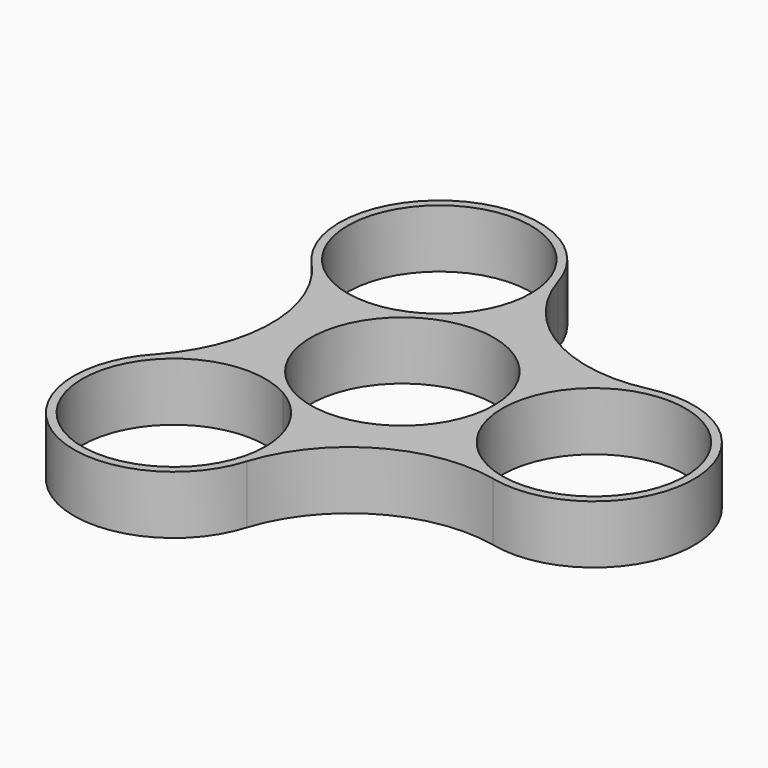
from build123d import *

# Parameters (mm, degrees)
F0_R     = 11
F1_DEPTH = 7


with BuildPart() as f1:
    # F0 (on Top) → F1 (new body)
    with BuildSketch(Plane.XY):
        with BuildLine():
            ThreePointArc((11.5, 3.427827), (11.874342, 1.732051), (12, 0))
            ThreePointArc((12, 0), (11.874342, -1.732051), (11.5, -3.427827))
            ThreePointArc((11.5, -3.427827), (14.754622, -8.718586), (20.218586, -11.673206))
            ThreePointArc((20.218586, -11.673206), (35, 0), (20.218586, 11.673206))
            ThreePointArc((20.218586, 11.673206), (14.754622, 8.718586), (11.5, 3.427827))
        make_face()
        with BuildLine():
            ThreePointArc((34, 0), (23, -11), (12, 0))
            ThreePointArc((12, 0), (23, 11), (34, 0))
        make_face(mode=Mode.SUBTRACT)
        with BuildLine():
            ThreePointArc((-2.781414, 11.673206), (6, 10.392305), (11.5, 3.427827))
            ThreePointArc((11.5, 3.427827), (14.754622, 8.718586), (20.218586, 11.673206))
            ThreePointArc((20.218586, 11.673206), (7.853112, 13.601989), (0, 23.346412))
            ThreePointArc((0, 23.346412), (0.173206, 17.13717), (-2.781414, 11.673206))
        make_face()
        with BuildLine():
            ThreePointArc((20.218586, -11.673206), (14.754622, -8.718586), (11.5, -3.427827))
            ThreePointArc((11.5, -3.427827), (6, -10.392305), (-2.781414, -11.673206))
            ThreePointArc((-2.781414, -11.673206), (0.173206, -17.13717), (0, -23.346412))
            ThreePointArc((0, -23.346412), (7.853112, -13.601989), (20.218586, -11.673206))
        make_face()
        with BuildLine():
            ThreePointArc((-6, 10.392305), (-4.437171, 11.149507), (-2.781414, 11.673206))
            ThreePointArc((-2.781414, 11.673206), (0.173206, 17.13717), (0, 23.346412))
            ThreePointArc((0, 23.346412), (-17.5, 30.310889), (-20.218586, 11.673206))
            ThreePointArc((-20.218586, 11.673206), (-14.927827, 8.418584), (-8.718586, 8.245378))
            ThreePointArc((-8.718586, 8.245378), (-7.437171, 9.417457), (-6, 10.392305))
        make_face()
        with BuildLine():
            ThreePointArc((-0.5, 19.918584), (-1.973721, 14.418584), (-6, 10.392305))
            ThreePointArc((-6, 10.392305), (-21.026279, 25.418584), (-0.5, 19.918584))
        make_face(mode=Mode.SUBTRACT)
        with BuildLine():
            ThreePointArc((0, -23.346412), (0.173206, -17.13717), (-2.781414, -11.673206))
            ThreePointArc((-2.781414, -11.673206), (-4.437171, -11.149507), (-6, -10.392305))
            ThreePointArc((-6, -10.392305), (-7.437171, -9.417457), (-8.718586, -8.245378))
            ThreePointArc((-8.718586, -8.245378), (-14.927827, -8.418584), (-20.218586, -11.673206))
            ThreePointArc((-20.218586, -11.673206), (-17.5, -30.310889), (0, -23.346412))
        make_face()
        with BuildLine():
            ThreePointArc((-0.5, -19.918584), (-21.02628, -25.418584), (-6, -10.392305))
            ThreePointArc((-6, -10.392305), (-1.97372, -14.418584), (-0.5, -19.918584))
        make_face(mode=Mode.SUBTRACT)
        with BuildLine():
            ThreePointArc((-8.718586, -8.245378), (-12, 0), (-8.718586, 8.245378))
            ThreePointArc((-8.718586, 8.245378), (-14.927827, 8.418584), (-20.218586, 11.673206))
            ThreePointArc((-20.218586, 11.673206), (-15.706224, 0), (-20.218586, -11.673206))
            ThreePointArc((-20.218586, -11.673206), (-14.927827, -8.418584), (-8.718586, -8.245378))
        make_face()
        with BuildLine():
            ThreePointArc((11.5, -3.427827), (11.874342, -1.732051), (12, 0))
            ThreePointArc((12, 0), (11.874342, 1.732051), (11.5, 3.427827))
            ThreePointArc((11.5, 3.427827), (6, 10.392305), (-2.781414, 11.673206))
            ThreePointArc((-2.781414, 11.673206), (-4.437171, 11.149507), (-6, 10.392305))
            ThreePointArc((-6, 10.392305), (-7.437171, 9.417457), (-8.718586, 8.245378))
            ThreePointArc((-8.718586, 8.245378), (-12, 0), (-8.718586, -8.245378))
            ThreePointArc((-8.718586, -8.245378), (-7.437171, -9.417457), (-6, -10.392305))
            ThreePointArc((-6, -10.392305), (-4.437171, -11.149507), (-2.781414, -11.673206))
            ThreePointArc((-2.781414, -11.673206), (6, -10.392305), (11.5, -3.427827))
        make_face()
        Circle(F0_R, mode=Mode.SUBTRACT)
    extrude(amount=F1_DEPTH)


solid = f1.part
